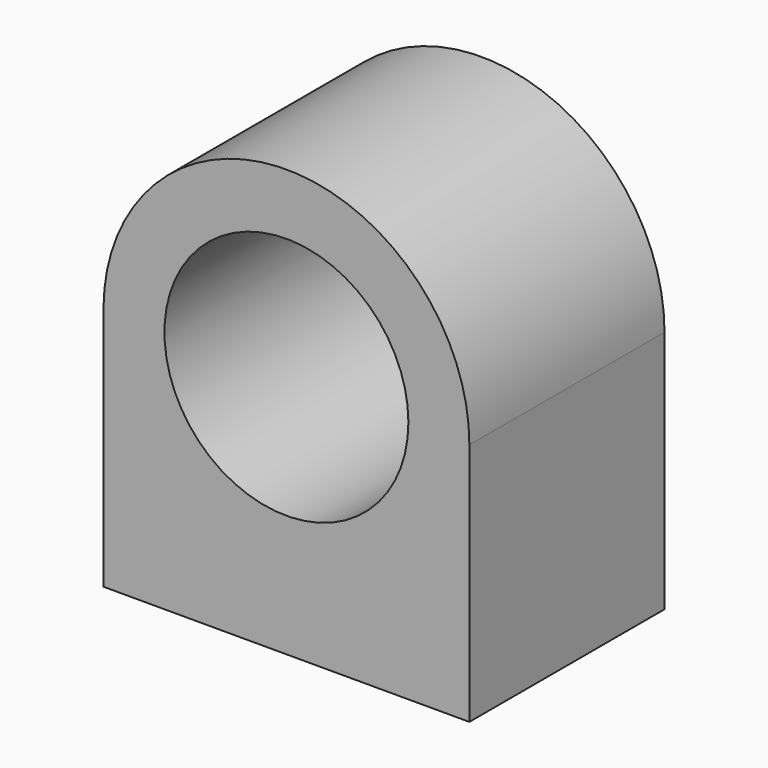
from build123d import *

# Parameters (mm, degrees)
F0_R     = 12.7
F1_DEPTH = 25.4
F2_R     = 3.175
F3_DEPTH = 12.7


with BuildPart() as f1:
    # F0 (on Front) → F1 (new body)
    with BuildSketch(Plane.XZ):
        with BuildLine():
            Line((4.8346, 4.932279), (4.833907, 30.332279))
            ThreePointArc((4.833907, 30.332279), (-14.135108, 49.381587), (-33.2654, 30.494248))
            Line((-33.2654, 30.494248), (-33.2654, 30.169272))
            Line((-33.2654, 30.169272), (-33.2654, 4.932279))
            Line((-33.2654, 4.932279), (4.8346, 4.932279))
        make_face()
        with Locations((-14.216093, 30.33176)):
            Circle(F0_R, mode=Mode.SUBTRACT)
        with BuildLine():
            Line((-33.2654, 30.169272), (-33.2654, 30.494248))
            ThreePointArc((-33.2654, 30.494248), (-33.266093, 30.33176), (-33.2654, 30.169272))
        make_face()
    extrude(amount=F1_DEPTH)

    # F2 (on face) → F3 (cut)
    with BuildSketch(Plane(origin=(0, 0, 4.932279), x_dir=(1, 0, 0), z_dir=(0, 0, -1))):
        with Locations((-28.4902, 20.6248)):
            Circle(F2_R)
        with Locations((0.0594, 20.6248)):
            Circle(F2_R)
    extrude(amount=-F3_DEPTH, mode=Mode.SUBTRACT)


solid = f1.part
